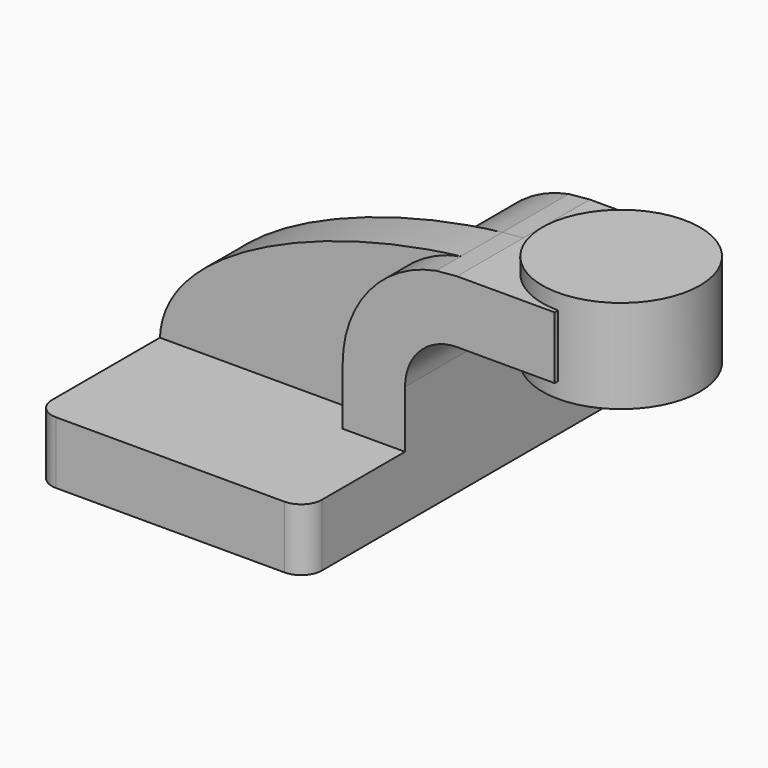
from build123d import *

# Parameters (mm, degrees)
F1_DEPTH = 63.5
F0_W     = 26.7074994694
F0_H     = 19.05
F2_DEPTH = 25.4
F3_DEPTH = 15.875
F5_R     = 6.35


with BuildPart() as f1:
    # F0 (on Front) → F1 (new body, symmetric)
    with BuildSketch(Plane.XZ):
        Polygon((-41.275, -9.525), (41.275, -9.525), (41.275, 9.525), (22.225, 9.525), (-41.275, 9.525), align=None)
    extrude(amount=F1_DEPTH, both=True)

    # F0 (on Front) → F2 (join, symmetric)
    with BuildSketch(Plane.XZ):
        with BuildLine():
            Line((22.225, 9.525), (41.275, 9.525))
            Line((41.275, 9.525), (41.275, 27.0002))
            ThreePointArc((41.275, 27.0002), (45.9246798487, 38.2255201513), (57.15, 42.8752))
            Line((57.15, 42.8752), (60.325, 42.8752))
            Line((60.325, 42.8752), (60.325, 61.9252))
            Line((60.325, 61.9252), (57.15, 61.9252))
            add(Edge.make_bspline(
                [(50.7148259904, 61.3272179373), (52.8977826503, 61.5734874191), (55.0462400607, 61.7732473961), (57.15, 61.9252)],
                knots=[105.6945195788, 105.6945195788, 105.6945195788, 105.6945195788, 111.5045361635, 111.5045361635, 111.5045361635, 111.5045361635], degree=3))
            ThreePointArc((50.7148259904, 61.3272179373), (30.2752527706, 49.3049884177), (22.225, 27.0002))
            Line((22.225, 27.0002), (22.225, 9.525))
        make_face()
        with Locations((73.6787497347, 52.4002)):
            Rectangle(F0_W, F0_H)
    extrude(amount=F2_DEPTH, both=True)

    # F0 (on Front) → F3 (join)
    with BuildSketch(Plane.XZ):
        with BuildLine():
            add(Edge.make_bspline(
                [(-41.275, 9.525), (-40.1260967037, 36.9751709766), (11.0029676748, 56.8471387181), (50.7148259904, 61.3272179373)],
                knots=[0, 0, 0, 0, 105.6945195788, 105.6945195788, 105.6945195788, 105.6945195788], degree=3))
            Line((-41.275, 9.525), (22.225, 9.525))
            Line((22.225, 9.525), (22.225, 27.0002))
            ThreePointArc((22.225, 27.0002), (30.2752527706, 49.3049884177), (50.7148259904, 61.3272179373))
        make_face()
    extrude(amount=F3_DEPTH)

    # F0 (on Front) → F4 (revolve)
    with BuildSketch(Plane.XZ):
        Polygon((87.0324994694, 61.9252), (87.0324994694, 42.8752), (87.0324994694, 38.1), (111.125, 38.1), (111.125, 66.675), (87.0324994694, 66.675), align=None)
    revolve(axis=Axis((87.0324994694, 0, 52.3875), (0, 0, -1)))

    # F5
    f5_edges = [f1.edges().sort_by_distance(p)[0] for p in [
        (41.275, -63.5, 0),
        (-41.275, -63.5, 0),
        (41.275, 63.5, 0),
        (-41.275, 63.5, 0),
    ]]
    fillet(f5_edges, radius=F5_R)


solid = f1.part
